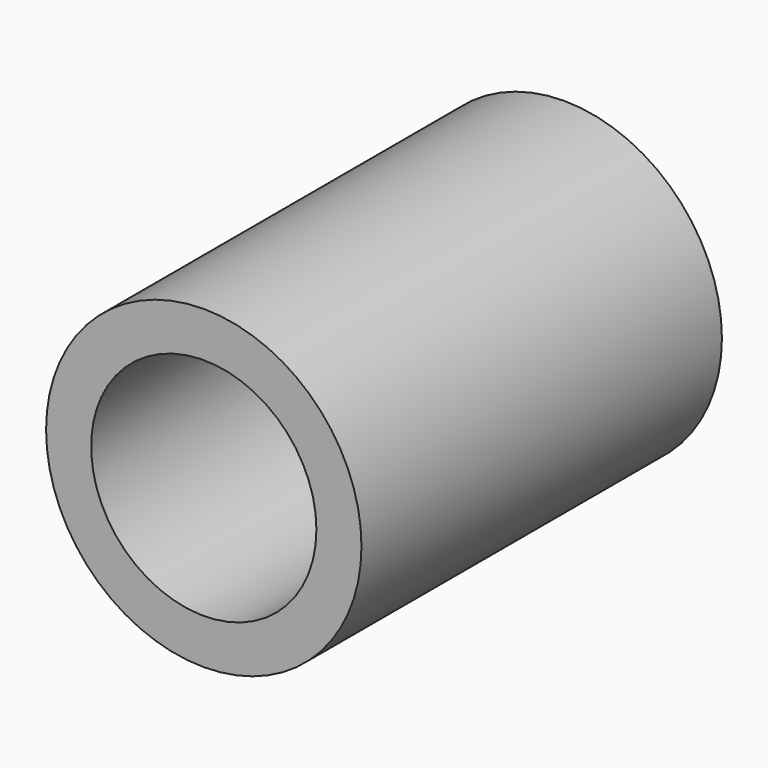
from build123d import *

# Parameters (mm, degrees)
F0_R     = 3.5
F1_DEPTH = 5
F2_R     = 2.5
F3_DEPTH = 10.001


with BuildPart() as f1:
    # F0 (on Front) → F1 (new body, symmetric)
    with BuildSketch(Plane.XZ):
        Circle(F0_R)
    extrude(amount=F1_DEPTH, both=True)

    # F2 (on face) → F3 (cut, through all)
    with BuildSketch(Plane.XZ.offset(5)):
        Circle(F2_R)
    extrude(amount=-F3_DEPTH, mode=Mode.SUBTRACT)


solid = f1.part
